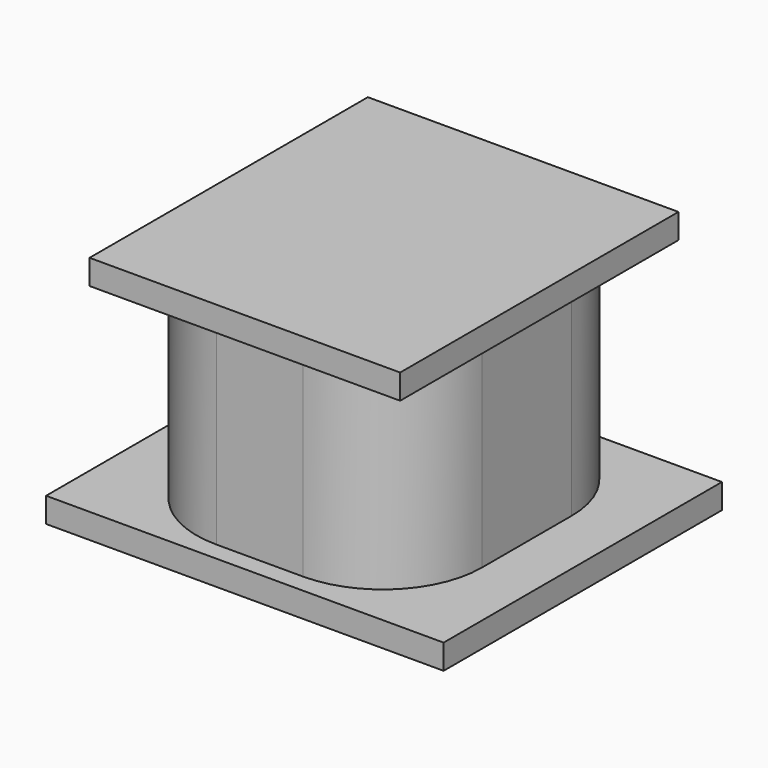
from build123d import *

# Parameters (mm, degrees)
F0_W     = 3.2
F0_H     = 2.8
F1_DEPTH = 0.2
F2_W     = 2.3
F2_H     = 2.5
F3_DEPTH = 1.6
F4_W     = 2.5
F4_H     = 2.8
F4_W_2   = 2.3
F4_H_2   = 2.5
F5_DEPTH = 0.2
F6_R     = 0.8


with BuildPart() as f1:
    # F0 (on Top) → F1 (new body)
    with BuildSketch(Plane.XY):
        Rectangle(F0_W, F0_H)
    extrude(amount=F1_DEPTH)


with BuildPart() as f3:
    # F2 (on face) → F3 (new body)
    with BuildSketch(Plane.XY.offset(0.2)):
        Rectangle(F2_W, F2_H)
    extrude(amount=F3_DEPTH)

    # F6
    f6_edges = [f3.edges().sort_by_distance(p)[0] for p in [
        (-1.15, -1.25, 1),
        (1.15, -1.25, 1),
        (1.15, 1.25, 1),
        (-1.15, 1.25, 1),
    ]]
    fillet(f6_edges, radius=F6_R)


with BuildPart() as f5:
    # F4 (on face) → F5 (new body)
    with BuildSketch(Plane.XY.offset(1.8)):
        Rectangle(F4_W, F4_H)
        Rectangle(F4_W_2, F4_H_2, mode=Mode.SUBTRACT)
        Rectangle(F4_W_2, F4_H_2)
    extrude(amount=F5_DEPTH)


solid = Compound([f1.part, f3.part, f5.part])
